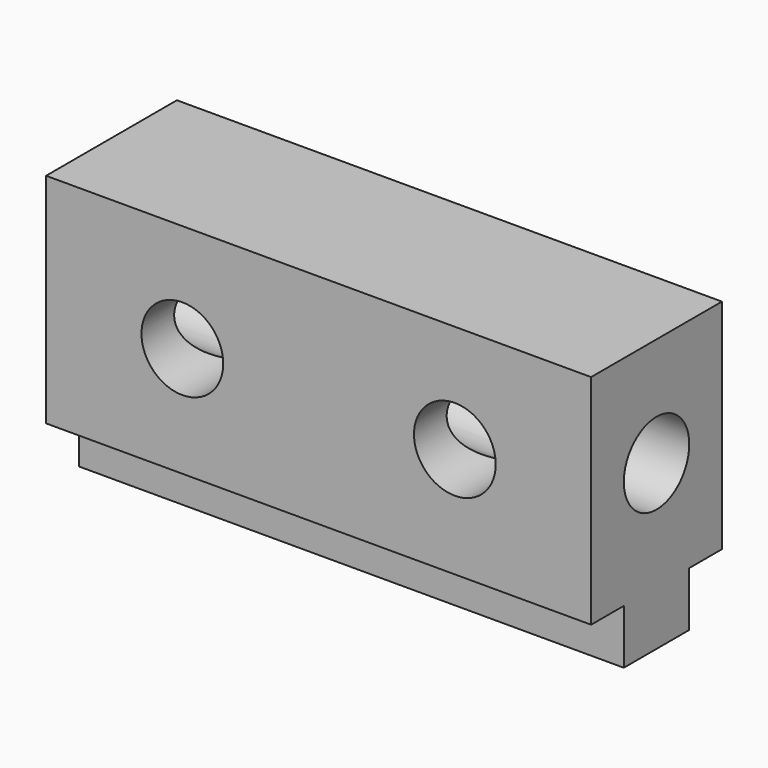
from build123d import *

# Parameters (mm, degrees)
F0_R          = 9.525
F1_DEPTH      = 127
F2_R          = 9.525
F3_DEPTH      = 46.228
F3_DEPTH_BACK = 48.514


with BuildPart() as f1:
    # F0 (on Right) → F1 (new body)
    with BuildSketch(Plane.YZ):
        Polygon((19.05, -19.05), (19.05, 31.75), (-19.05, 31.75), (-19.05, -19.05), (-9.525, -19.05), (-9.525, -31.75), (9.525, -31.75), (9.525, -19.05), align=None)
        with Locations((0, 6.35)):
            Circle(F0_R, mode=Mode.SUBTRACT)
    extrude(amount=F1_DEPTH)

    # F2 (on Front) → F3 (cut, two sides)
    with BuildSketch(Plane.XZ) as f3_sk:
        with Locations((31.75, 6.600567)):
            Circle(F2_R)
        with Locations((95.25, 6.600567)):
            Circle(F2_R)
    extrude(amount=F3_DEPTH, mode=Mode.SUBTRACT)
    extrude(f3_sk.sketch, amount=-F3_DEPTH_BACK, mode=Mode.SUBTRACT)


solid = f1.part
